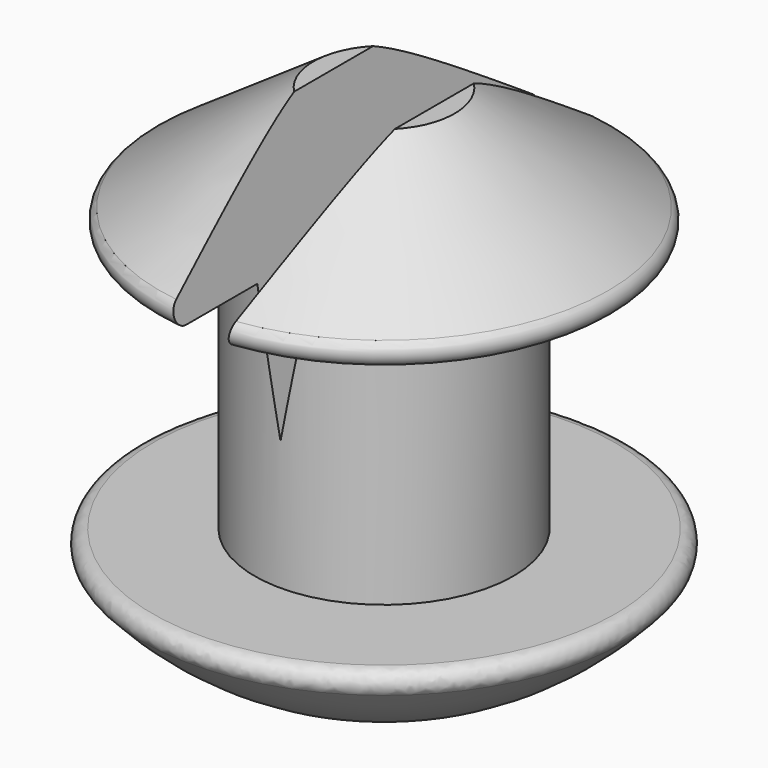
from build123d import *

# Parameters (mm, degrees)
F3_DEPTH = 12.5
F4_R     = 0.2


with BuildPart() as f1:
    # F0 (on Front) → F1 (revolve)
    with BuildSketch(Plane.XZ):
        with BuildLine():
            Line((1.091340166, 4), (0.7793633606, 4))
            Line((0.7793633606, 4), (0, 2.1581007758))
            Line((0, 2.1581007758), (0, -4))
            ThreePointArc((0, -4), (2.2360679775, -3.472135955), (4, -2))
            Line((4, -2), (2, -2))
            Line((2, -2), (2, 0))
            Line((2, 0), (2, 2))
            Line((2, 2), (4, 2))
            Line((4, 2), (1.091340166, 4))
        make_face()
    revolve(axis=Axis((0, 0, 0), (0, 0, -1)))

    # F2 (on Front) → F3 (cut, symmetric)
    with BuildSketch(Plane.XZ):
        Polygon((0.7793633606, 4), (-0.7793633606, 4), (0, 0), align=None)
    extrude(amount=F3_DEPTH, both=True, mode=Mode.SUBTRACT)

    # F4
    f4_edges = [f1.edges().sort_by_distance(p)[0] for p in [
        (4, 0, 2),
        (-4, 0, 2),
        (-4, 0, -2),
    ]]
    fillet(f4_edges, radius=F4_R)


with BuildPart() as f5_1:
    # F5: copy of F1
    add(f1.part.moved(Location((-19.8, 0, -17.8))))


solid = f1.part
